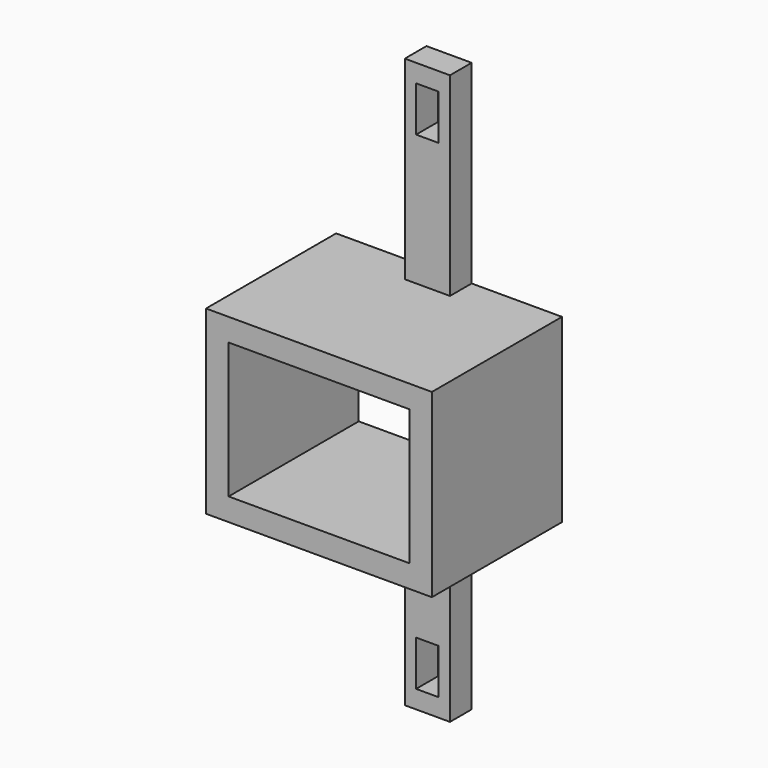
from build123d import *

# Parameters (mm, degrees)
F0_W     = 5
F0_H     = 21.5
F0_W_2   = 2.5
F0_H_2   = 5
F1_DEPTH = 3
F0_H_3   = 2.5
F2_DEPTH = 18


with BuildPart() as f1:
    # F0 (on Front) → F1 (new body)
    with BuildSketch(Plane.XZ):
        with Locations((0, 20.75)):
            Rectangle(F0_W, F0_H)
        with Locations((0, 27)):
            Rectangle(F0_W_2, F0_H_2, mode=Mode.SUBTRACT)
    extrude(amount=F1_DEPTH)



with BuildPart() as f1b:
    # F0 (on Front) → F1, piece 2 (new body)
    with BuildSketch(Plane.XZ):
        with Locations((0, -20.75)):
            Rectangle(F0_W, F0_H)
        with Locations((0, -27)):
            Rectangle(F0_W_2, F0_H_2, mode=Mode.SUBTRACT)
    extrude(amount=F1_DEPTH)


with BuildPart() as f1_1:
    add(f1.part)

    add(f1b.part)  # F2 merges F1b
    # F0 (on Front) → F2 (join)
    with BuildSketch(Plane.XZ):
        with Locations((0, 8.75)):
            Rectangle(F0_W, F0_H_3)
        Polygon((10, 7.5), (10, -7.5), (2.5, -7.5), (2.5, -10), (12.5, -10), (12.5, 10), (2.5, 10), (2.5, 7.5), align=None)
        with Locations((0, -8.75)):
            Rectangle(F0_W, F0_H_3)
        Polygon((-2.5, -10), (-2.5, -7.5), (-10, -7.5), (-10, 7.5), (-2.5, 7.5), (-2.5, 10), (-12.5, 10), (-12.5, -10), align=None)
    extrude(amount=F2_DEPTH)


solid = f1_1.part
